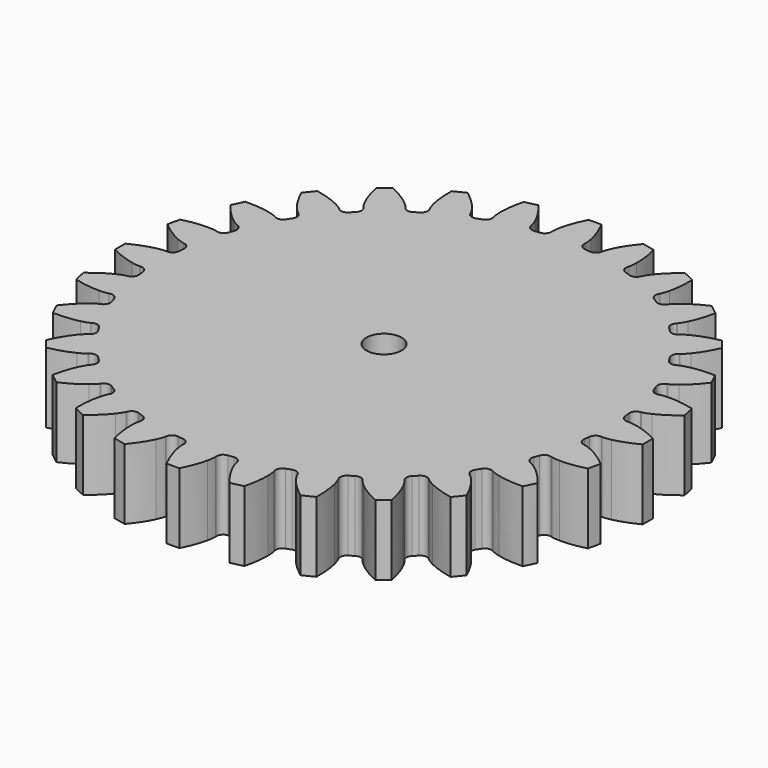
from build123d import *

# Parameters (mm, degrees)
PAD_DEPTH    = 10
SKETCH_R     = 2.5
POCKET_DEPTH = 10.001


with BuildPart() as part:
    # InvoluteGear → Pad (new body)
    with BuildSketch(Plane.XY):
        with BuildLine():
            Line((32.742289, -2.328757), (32.856946, -2.335013))
            add(Edge.make_bspline(
                [(32.856946, -2.335013), (32.990949, -2.337125), (33.394798, -2.328721), (34.06713, -2.188651)],
                knots=[0, 0, 0, 0, 1, 1, 1, 1], degree=3))
            add(Edge.make_bspline(
                [(34.06713, -2.188651), (34.873016, -2.018801), (36.038338, -1.661329), (37.491435, -0.912795)],
                knots=[0, 0, 0, 0, 1, 1, 1, 1], degree=3))
            ThreePointArc((37.491435, -0.912795), (37.501273, 0.000463), (37.488867, 0.91369))
            add(Edge.make_bspline(
                [(37.488867, 0.91369), (36.038338, 1.661329), (34.873016, 2.018801), (34.06713, 2.188651)],
                knots=[0, 0, 0, 0, 1, 1, 1, 1], degree=3))
            add(Edge.make_bspline(
                [(34.06713, 2.188651), (33.394798, 2.328721), (32.990949, 2.337125), (32.856946, 2.335013)],
                knots=[0, 0, 0, 0, 1, 1, 1, 1], degree=3))
            Line((32.856946, 2.335013), (32.742289, 2.328757))
            ThreePointArc((32.742289, 2.328757), (32.054621, 2.54414), (31.715956, 3.180209))
            ThreePointArc((31.715956, 3.180209), (31.674577, 3.568868), (31.628434, 3.95699))
            ThreePointArc((31.628434, 3.95699), (31.817069, 4.652471), (32.439569, 5.015475))
            Line((32.439569, 5.015475), (32.552743, 5.034889))
            add(Edge.make_bspline(
                [(32.552743, 5.034889), (32.683857, 5.062649), (33.07571, 5.160707), (33.700017, 5.446872)],
                knots=[0, 0, 0, 0, 1, 1, 1, 1], degree=3))
            add(Edge.make_bspline(
                [(33.700017, 5.446872), (34.447903, 5.791791), (35.504462, 6.399608), (36.754562, 7.45272)],
                knots=[0, 0, 0, 0, 1, 1, 1, 1], degree=3))
            ThreePointArc((36.754562, 7.45272), (36.560935, 8.34527), (36.345628, 9.23284))
            add(Edge.make_bspline(
                [(36.345628, 9.23284), (34.765101, 9.638961), (33.549452, 9.728162), (32.725976, 9.714427)],
                knots=[0, 0, 0, 0, 1, 1, 1, 1], degree=3))
            add(Edge.make_bspline(
                [(32.725976, 9.714427), (32.039332, 9.701377), (31.643738, 9.619705), (31.513565, 9.587827)],
                knots=[0, 0, 0, 0, 1, 1, 1, 1], degree=3))
            Line((31.513565, 9.587827), (31.403175, 9.556215))
            ThreePointArc((31.403175, 9.556215), (30.68482, 9.613177), (30.213108, 10.157939))
            ThreePointArc((30.213108, 10.157939), (30.086281, 10.527645), (29.95493, 10.895769))
            ThreePointArc((29.95493, 10.895769), (29.984077, 11.615788), (30.510193, 12.10821))
            Line((30.510193, 12.10821), (30.61621, 12.152321))
            add(Edge.make_bspline(
                [(30.61621, 12.152321), (30.737859, 12.20856), (31.098067, 12.391355), (31.643044, 12.809267)],
                knots=[0, 0, 0, 0, 1, 1, 1, 1], degree=3))
            add(Edge.make_bspline(
                [(31.643044, 12.809267), (32.295427, 13.311958), (33.190244, 14.139643), (34.174663, 15.444524)],
                knots=[0, 0, 0, 0, 1, 1, 1, 1], degree=3))
            ThreePointArc((34.174663, 15.444524), (33.787278, 16.27161), (33.379867, 17.089016))
            add(Edge.make_bspline(
                [(33.379867, 17.089016), (31.748597, 17.133255), (30.543577, 16.949712), (29.743804, 16.753081)],
                knots=[0, 0, 0, 0, 1, 1, 1, 1], degree=3))
            add(Edge.make_bspline(
                [(29.743804, 16.753081), (29.077279, 16.587565), (28.709778, 16.419913), (28.589961, 16.359868)],
                knots=[0, 0, 0, 0, 1, 1, 1, 1], degree=3))
            Line((28.589961, 16.359868), (28.489374, 16.304484))
            ThreePointArc((28.489374, 16.304484), (27.776355, 16.20017), (27.195248, 16.626307))
            ThreePointArc((27.195248, 16.626307), (26.989334, 16.958522), (26.779361, 17.288188))
            ThreePointArc((26.779361, 17.288188), (26.647557, 17.996641), (27.050909, 18.593788))
            Line((27.050909, 18.593788), (27.144452, 18.660384))
            add(Edge.make_bspline(
                [(27.144452, 18.660384), (27.250536, 18.742283), (27.561038, 19.000649), (27.999357, 19.529352)],
                knots=[0, 0, 0, 0, 1, 1, 1, 1], degree=3))
            add(Edge.make_bspline(
                [(27.999357, 19.529352), (28.523524, 20.164608), (29.211729, 21.170657), (29.881102, 22.661876)],
                knots=[0, 0, 0, 0, 1, 1, 1, 1], degree=3))
            ThreePointArc((29.881102, 22.661876), (29.319387, 23.382023), (28.7403, 24.088278))
            add(Edge.make_bspline(
                [(28.7403, 24.088278), (27.140085, 23.768415), (26.00612, 23.321332), (25.270153, 22.951665)],
                knots=[0, 0, 0, 0, 1, 1, 1, 1], degree=3))
            add(Edge.make_bspline(
                [(25.270153, 22.951665), (24.657171, 22.641983), (24.336189, 22.396758), (24.232738, 22.311557)],
                knots=[0, 0, 0, 0, 1, 1, 1, 1], degree=3))
            Line((24.232738, 22.311557), (24.146997, 22.235179))
            ThreePointArc((24.146997, 22.235179), (23.475067, 21.974818), (22.813705, 22.260963))
            ThreePointArc((22.813705, 22.260963), (22.539029, 22.539029), (22.260963, 22.813705))
            ThreePointArc((22.260963, 22.813705), (21.974818, 23.475067), (22.235179, 24.146997))
            Line((22.235179, 24.146997), (22.311557, 24.232738))
            add(Edge.make_bspline(
                [(22.311557, 24.232738), (22.396758, 24.336189), (22.641983, 24.657171), (22.951665, 25.270153)],
                knots=[0, 0, 0, 0, 1, 1, 1, 1], degree=3))
            add(Edge.make_bspline(
                [(22.951665, 25.270153), (23.321332, 26.00612), (23.768415, 27.140085), (24.089179, 28.742866)],
                knots=[0, 0, 0, 0, 1, 1, 1, 1], degree=3))
            ThreePointArc((24.089179, 28.742866), (23.381299, 29.319965), (22.659575, 29.879653))
            add(Edge.make_bspline(
                [(22.659575, 29.879653), (21.170657, 29.211729), (20.164608, 28.523524), (19.529352, 27.999357)],
                knots=[0, 0, 0, 0, 1, 1, 1, 1], degree=3))
            add(Edge.make_bspline(
                [(19.529352, 27.999357), (19.000649, 27.561038), (18.742283, 27.250536), (18.660384, 27.144452)],
                knots=[0, 0, 0, 0, 1, 1, 1, 1], degree=3))
            Line((18.660384, 27.144452), (18.593788, 27.050909))
            ThreePointArc((18.593788, 27.050909), (17.996641, 26.647557), (17.288188, 26.779361))
            ThreePointArc((17.288188, 26.779361), (16.958522, 26.989334), (16.626307, 27.195248))
            ThreePointArc((16.626307, 27.195248), (16.20017, 27.776355), (16.304484, 28.489374))
            Line((16.304484, 28.489374), (16.359868, 28.589961))
            add(Edge.make_bspline(
                [(16.359868, 28.589961), (16.419913, 28.709778), (16.587565, 29.077279), (16.753081, 29.743804)],
                knots=[0, 0, 0, 0, 1, 1, 1, 1], degree=3))
            add(Edge.make_bspline(
                [(16.753081, 29.743804), (16.949712, 30.543577), (17.133255, 31.748597), (17.089324, 33.382569)],
                knots=[0, 0, 0, 0, 1, 1, 1, 1], degree=3))
            ThreePointArc((17.089324, 33.382569), (16.270775, 33.78768), (15.442604, 34.172738))
            add(Edge.make_bspline(
                [(15.442604, 34.172738), (14.139643, 33.190244), (13.311958, 32.295427), (12.809267, 31.643044)],
                knots=[0, 0, 0, 0, 1, 1, 1, 1], degree=3))
            add(Edge.make_bspline(
                [(12.809267, 31.643044), (12.391355, 31.098067), (12.20856, 30.737859), (12.152321, 30.61621)],
                knots=[0, 0, 0, 0, 1, 1, 1, 1], degree=3))
            Line((12.152321, 30.61621), (12.10821, 30.510193))
            ThreePointArc((12.10821, 30.510193), (11.615788, 29.984077), (10.895769, 29.95493))
            ThreePointArc((10.895769, 29.95493), (10.527645, 30.086281), (10.157939, 30.213108))
            ThreePointArc((10.157939, 30.213108), (9.613177, 30.68482), (9.556215, 31.403175))
            Line((9.556215, 31.403175), (9.587827, 31.513565))
            add(Edge.make_bspline(
                [(9.587827, 31.513565), (9.619705, 31.643738), (9.701377, 32.039332), (9.714427, 32.725976)],
                knots=[0, 0, 0, 0, 1, 1, 1, 1], degree=3))
            add(Edge.make_bspline(
                [(9.714427, 32.725976), (9.728162, 33.549452), (9.638961, 34.765101), (9.232538, 36.348331)],
                knots=[0, 0, 0, 0, 1, 1, 1, 1], degree=3))
            ThreePointArc((9.232538, 36.348331), (8.344367, 36.561141), (7.451276, 36.752258))
            add(Edge.make_bspline(
                [(7.451276, 36.752258), (6.399608, 35.504462), (5.791791, 34.447903), (5.446872, 33.700017)],
                knots=[0, 0, 0, 0, 1, 1, 1, 1], degree=3))
            add(Edge.make_bspline(
                [(5.446872, 33.700017), (5.160707, 33.07571), (5.062649, 32.683857), (5.034889, 32.552743)],
                knots=[0, 0, 0, 0, 1, 1, 1, 1], degree=3))
            Line((5.034889, 32.552743), (5.015475, 32.439569))
            ThreePointArc((5.015475, 32.439569), (4.652471, 31.817069), (3.95699, 31.628434))
            ThreePointArc((3.95699, 31.628434), (3.568868, 31.674577), (3.180209, 31.715956))
            ThreePointArc((3.180209, 31.715956), (2.54414, 32.054621), (2.328757, 32.742289))
            Line((2.328757, 32.742289), (2.335013, 32.856946))
            add(Edge.make_bspline(
                [(2.335013, 32.856946), (2.337125, 32.990949), (2.328721, 33.394798), (2.188651, 34.06713)],
                knots=[0, 0, 0, 0, 1, 1, 1, 1], degree=3))
            add(Edge.make_bspline(
                [(2.188651, 34.06713), (2.018801, 34.873016), (1.661329, 36.038338), (0.912795, 37.491435)],
                knots=[0, 0, 0, 0, 1, 1, 1, 1], degree=3))
            ThreePointArc((0.912795, 37.491435), (-0.000463, 37.501273), (-0.91369, 37.488867))
            add(Edge.make_bspline(
                [(-0.91369, 37.488867), (-1.661329, 36.038338), (-2.018801, 34.873016), (-2.188651, 34.06713)],
                knots=[0, 0, 0, 0, 1, 1, 1, 1], degree=3))
            add(Edge.make_bspline(
                [(-2.188651, 34.06713), (-2.328721, 33.394798), (-2.337125, 32.990949), (-2.335013, 32.856946)],
                knots=[0, 0, 0, 0, 1, 1, 1, 1], degree=3))
            Line((-2.335013, 32.856946), (-2.328757, 32.742289))
            ThreePointArc((-2.328757, 32.742289), (-2.54414, 32.054621), (-3.180209, 31.715956))
            ThreePointArc((-3.180209, 31.715956), (-3.568868, 31.674577), (-3.95699, 31.628434))
            ThreePointArc((-3.95699, 31.628434), (-4.652471, 31.817069), (-5.015475, 32.439569))
            Line((-5.015475, 32.439569), (-5.034889, 32.552743))
            add(Edge.make_bspline(
                [(-5.034889, 32.552743), (-5.062649, 32.683857), (-5.160707, 33.07571), (-5.446872, 33.700017)],
                knots=[0, 0, 0, 0, 1, 1, 1, 1], degree=3))
            add(Edge.make_bspline(
                [(-5.446872, 33.700017), (-5.791791, 34.447903), (-6.399608, 35.504462), (-7.45272, 36.754562)],
                knots=[0, 0, 0, 0, 1, 1, 1, 1], degree=3))
            ThreePointArc((-7.45272, 36.754562), (-8.34527, 36.560935), (-9.23284, 36.345628))
            add(Edge.make_bspline(
                [(-9.23284, 36.345628), (-9.638961, 34.765101), (-9.728162, 33.549452), (-9.714427, 32.725976)],
                knots=[0, 0, 0, 0, 1, 1, 1, 1], degree=3))
            add(Edge.make_bspline(
                [(-9.714427, 32.725976), (-9.701377, 32.039332), (-9.619705, 31.643738), (-9.587827, 31.513565)],
                knots=[0, 0, 0, 0, 1, 1, 1, 1], degree=3))
            Line((-9.587827, 31.513565), (-9.556215, 31.403175))
            ThreePointArc((-9.556215, 31.403175), (-9.613177, 30.68482), (-10.157939, 30.213108))
            ThreePointArc((-10.157939, 30.213108), (-10.527645, 30.086281), (-10.895769, 29.95493))
            ThreePointArc((-10.895769, 29.95493), (-11.615788, 29.984077), (-12.10821, 30.510193))
            Line((-12.10821, 30.510193), (-12.152321, 30.61621))
            add(Edge.make_bspline(
                [(-12.152321, 30.61621), (-12.20856, 30.737859), (-12.391355, 31.098067), (-12.809267, 31.643044)],
                knots=[0, 0, 0, 0, 1, 1, 1, 1], degree=3))
            add(Edge.make_bspline(
                [(-12.809267, 31.643044), (-13.311958, 32.295427), (-14.139643, 33.190244), (-15.444524, 34.174663)],
                knots=[0, 0, 0, 0, 1, 1, 1, 1], degree=3))
            ThreePointArc((-15.444524, 34.174663), (-16.27161, 33.787278), (-17.089016, 33.379867))
            add(Edge.make_bspline(
                [(-17.089016, 33.379867), (-17.133255, 31.748597), (-16.949712, 30.543577), (-16.753081, 29.743804)],
                knots=[0, 0, 0, 0, 1, 1, 1, 1], degree=3))
            add(Edge.make_bspline(
                [(-16.753081, 29.743804), (-16.587565, 29.077279), (-16.419913, 28.709778), (-16.359868, 28.589961)],
                knots=[0, 0, 0, 0, 1, 1, 1, 1], degree=3))
            Line((-16.359868, 28.589961), (-16.304484, 28.489374))
            ThreePointArc((-16.304484, 28.489374), (-16.20017, 27.776355), (-16.626307, 27.195248))
            ThreePointArc((-16.626307, 27.195248), (-16.958522, 26.989334), (-17.288188, 26.779361))
            ThreePointArc((-17.288188, 26.779361), (-17.996641, 26.647557), (-18.593788, 27.050909))
            Line((-18.593788, 27.050909), (-18.660384, 27.144452))
            add(Edge.make_bspline(
                [(-18.660384, 27.144452), (-18.742283, 27.250536), (-19.000649, 27.561038), (-19.529352, 27.999357)],
                knots=[0, 0, 0, 0, 1, 1, 1, 1], degree=3))
            add(Edge.make_bspline(
                [(-19.529352, 27.999357), (-20.164608, 28.523524), (-21.170657, 29.211729), (-22.661876, 29.881102)],
                knots=[0, 0, 0, 0, 1, 1, 1, 1], degree=3))
            ThreePointArc((-22.661876, 29.881102), (-23.382023, 29.319387), (-24.088278, 28.7403))
            add(Edge.make_bspline(
                [(-24.088278, 28.7403), (-23.768415, 27.140085), (-23.321332, 26.00612), (-22.951665, 25.270153)],
                knots=[0, 0, 0, 0, 1, 1, 1, 1], degree=3))
            add(Edge.make_bspline(
                [(-22.951665, 25.270153), (-22.641983, 24.657171), (-22.396758, 24.336189), (-22.311557, 24.232738)],
                knots=[0, 0, 0, 0, 1, 1, 1, 1], degree=3))
            Line((-22.311557, 24.232738), (-22.235179, 24.146997))
            ThreePointArc((-22.235179, 24.146997), (-21.974818, 23.475067), (-22.260963, 22.813705))
            ThreePointArc((-22.260963, 22.813705), (-22.539029, 22.539029), (-22.813705, 22.260963))
            ThreePointArc((-22.813705, 22.260963), (-23.475067, 21.974818), (-24.146997, 22.235179))
            Line((-24.146997, 22.235179), (-24.232738, 22.311557))
            add(Edge.make_bspline(
                [(-24.232738, 22.311557), (-24.336189, 22.396758), (-24.657171, 22.641983), (-25.270153, 22.951665)],
                knots=[0, 0, 0, 0, 1, 1, 1, 1], degree=3))
            add(Edge.make_bspline(
                [(-25.270153, 22.951665), (-26.00612, 23.321332), (-27.140085, 23.768415), (-28.742866, 24.089179)],
                knots=[0, 0, 0, 0, 1, 1, 1, 1], degree=3))
            ThreePointArc((-28.742866, 24.089179), (-29.319965, 23.381299), (-29.879653, 22.659575))
            add(Edge.make_bspline(
                [(-29.879653, 22.659575), (-29.211729, 21.170657), (-28.523524, 20.164608), (-27.999357, 19.529352)],
                knots=[0, 0, 0, 0, 1, 1, 1, 1], degree=3))
            add(Edge.make_bspline(
                [(-27.999357, 19.529352), (-27.561038, 19.000649), (-27.250536, 18.742283), (-27.144452, 18.660384)],
                knots=[0, 0, 0, 0, 1, 1, 1, 1], degree=3))
            Line((-27.144452, 18.660384), (-27.050909, 18.593788))
            ThreePointArc((-27.050909, 18.593788), (-26.647557, 17.996641), (-26.779361, 17.288188))
            ThreePointArc((-26.779361, 17.288188), (-26.989334, 16.958522), (-27.195248, 16.626307))
            ThreePointArc((-27.195248, 16.626307), (-27.776355, 16.20017), (-28.489374, 16.304484))
            Line((-28.489374, 16.304484), (-28.589961, 16.359868))
            add(Edge.make_bspline(
                [(-28.589961, 16.359868), (-28.709778, 16.419913), (-29.077279, 16.587565), (-29.743804, 16.753081)],
                knots=[0, 0, 0, 0, 1, 1, 1, 1], degree=3))
            add(Edge.make_bspline(
                [(-29.743804, 16.753081), (-30.543577, 16.949712), (-31.748597, 17.133255), (-33.382569, 17.089324)],
                knots=[0, 0, 0, 0, 1, 1, 1, 1], degree=3))
            ThreePointArc((-33.382569, 17.089324), (-33.78768, 16.270775), (-34.172738, 15.442604))
            add(Edge.make_bspline(
                [(-34.172738, 15.442604), (-33.190244, 14.139643), (-32.295427, 13.311958), (-31.643044, 12.809267)],
                knots=[0, 0, 0, 0, 1, 1, 1, 1], degree=3))
            add(Edge.make_bspline(
                [(-31.643044, 12.809267), (-31.098067, 12.391355), (-30.737859, 12.20856), (-30.61621, 12.152321)],
                knots=[0, 0, 0, 0, 1, 1, 1, 1], degree=3))
            Line((-30.61621, 12.152321), (-30.510193, 12.10821))
            ThreePointArc((-30.510193, 12.10821), (-29.984077, 11.615788), (-29.95493, 10.895769))
            ThreePointArc((-29.95493, 10.895769), (-30.086281, 10.527645), (-30.213108, 10.157939))
            ThreePointArc((-30.213108, 10.157939), (-30.68482, 9.613177), (-31.403175, 9.556215))
            Line((-31.403175, 9.556215), (-31.513565, 9.587827))
            add(Edge.make_bspline(
                [(-31.513565, 9.587827), (-31.643738, 9.619705), (-32.039332, 9.701377), (-32.725976, 9.714427)],
                knots=[0, 0, 0, 0, 1, 1, 1, 1], degree=3))
            add(Edge.make_bspline(
                [(-32.725976, 9.714427), (-33.549452, 9.728162), (-34.765101, 9.638961), (-36.348331, 9.232538)],
                knots=[0, 0, 0, 0, 1, 1, 1, 1], degree=3))
            ThreePointArc((-36.348331, 9.232538), (-36.561141, 8.344367), (-36.752258, 7.451276))
            add(Edge.make_bspline(
                [(-36.752258, 7.451276), (-35.504462, 6.399608), (-34.447903, 5.791791), (-33.700017, 5.446872)],
                knots=[0, 0, 0, 0, 1, 1, 1, 1], degree=3))
            add(Edge.make_bspline(
                [(-33.700017, 5.446872), (-33.07571, 5.160707), (-32.683857, 5.062649), (-32.552743, 5.034889)],
                knots=[0, 0, 0, 0, 1, 1, 1, 1], degree=3))
            Line((-32.552743, 5.034889), (-32.439569, 5.015475))
            ThreePointArc((-32.439569, 5.015475), (-31.817069, 4.652471), (-31.628434, 3.95699))
            ThreePointArc((-31.628434, 3.95699), (-31.674577, 3.568868), (-31.715956, 3.180209))
            ThreePointArc((-31.715956, 3.180209), (-32.054621, 2.54414), (-32.742289, 2.328757))
            Line((-32.742289, 2.328757), (-32.856946, 2.335013))
            add(Edge.make_bspline(
                [(-32.856946, 2.335013), (-32.990949, 2.337125), (-33.394798, 2.328721), (-34.06713, 2.188651)],
                knots=[0, 0, 0, 0, 1, 1, 1, 1], degree=3))
            add(Edge.make_bspline(
                [(-34.06713, 2.188651), (-34.873016, 2.018801), (-36.038338, 1.661329), (-37.491435, 0.912795)],
                knots=[0, 0, 0, 0, 1, 1, 1, 1], degree=3))
            ThreePointArc((-37.491435, 0.912795), (-37.501273, -0.000463), (-37.488867, -0.91369))
            add(Edge.make_bspline(
                [(-37.488867, -0.91369), (-36.038338, -1.661329), (-34.873016, -2.018801), (-34.06713, -2.188651)],
                knots=[0, 0, 0, 0, 1, 1, 1, 1], degree=3))
            add(Edge.make_bspline(
                [(-34.06713, -2.188651), (-33.394798, -2.328721), (-32.990949, -2.337125), (-32.856946, -2.335013)],
                knots=[0, 0, 0, 0, 1, 1, 1, 1], degree=3))
            Line((-32.856946, -2.335013), (-32.742289, -2.328757))
            ThreePointArc((-32.742289, -2.328757), (-32.054621, -2.54414), (-31.715956, -3.180209))
            ThreePointArc((-31.715956, -3.180209), (-31.674577, -3.568868), (-31.628434, -3.95699))
            ThreePointArc((-31.628434, -3.95699), (-31.817069, -4.652471), (-32.439569, -5.015475))
            Line((-32.439569, -5.015475), (-32.552743, -5.034889))
            add(Edge.make_bspline(
                [(-32.552743, -5.034889), (-32.683857, -5.062649), (-33.07571, -5.160707), (-33.700017, -5.446872)],
                knots=[0, 0, 0, 0, 1, 1, 1, 1], degree=3))
            add(Edge.make_bspline(
                [(-33.700017, -5.446872), (-34.447903, -5.791791), (-35.504462, -6.399608), (-36.754562, -7.45272)],
                knots=[0, 0, 0, 0, 1, 1, 1, 1], degree=3))
            ThreePointArc((-36.754562, -7.45272), (-36.560935, -8.34527), (-36.345628, -9.23284))
            add(Edge.make_bspline(
                [(-36.345628, -9.23284), (-34.765101, -9.638961), (-33.549452, -9.728162), (-32.725976, -9.714427)],
                knots=[0, 0, 0, 0, 1, 1, 1, 1], degree=3))
            add(Edge.make_bspline(
                [(-32.725976, -9.714427), (-32.039332, -9.701377), (-31.643738, -9.619705), (-31.513565, -9.587827)],
                knots=[0, 0, 0, 0, 1, 1, 1, 1], degree=3))
            Line((-31.513565, -9.587827), (-31.403175, -9.556215))
            ThreePointArc((-31.403175, -9.556215), (-30.68482, -9.613177), (-30.213108, -10.157939))
            ThreePointArc((-30.213108, -10.157939), (-30.086281, -10.527645), (-29.95493, -10.895769))
            ThreePointArc((-29.95493, -10.895769), (-29.984077, -11.615788), (-30.510193, -12.10821))
            Line((-30.510193, -12.10821), (-30.61621, -12.152321))
            add(Edge.make_bspline(
                [(-30.61621, -12.152321), (-30.737859, -12.20856), (-31.098067, -12.391355), (-31.643044, -12.809267)],
                knots=[0, 0, 0, 0, 1, 1, 1, 1], degree=3))
            add(Edge.make_bspline(
                [(-31.643044, -12.809267), (-32.295427, -13.311958), (-33.190244, -14.139643), (-34.174663, -15.444524)],
                knots=[0, 0, 0, 0, 1, 1, 1, 1], degree=3))
            ThreePointArc((-34.174663, -15.444524), (-33.787278, -16.27161), (-33.379867, -17.089016))
            add(Edge.make_bspline(
                [(-33.379867, -17.089016), (-31.748597, -17.133255), (-30.543577, -16.949712), (-29.743804, -16.753081)],
                knots=[0, 0, 0, 0, 1, 1, 1, 1], degree=3))
            add(Edge.make_bspline(
                [(-29.743804, -16.753081), (-29.077279, -16.587565), (-28.709778, -16.419913), (-28.589961, -16.359868)],
                knots=[0, 0, 0, 0, 1, 1, 1, 1], degree=3))
            Line((-28.589961, -16.359868), (-28.489374, -16.304484))
            ThreePointArc((-28.489374, -16.304484), (-27.776355, -16.20017), (-27.195248, -16.626307))
            ThreePointArc((-27.195248, -16.626307), (-26.989334, -16.958522), (-26.779361, -17.288188))
            ThreePointArc((-26.779361, -17.288188), (-26.647557, -17.996641), (-27.050909, -18.593788))
            Line((-27.050909, -18.593788), (-27.144452, -18.660384))
            add(Edge.make_bspline(
                [(-27.144452, -18.660384), (-27.250536, -18.742283), (-27.561038, -19.000649), (-27.999357, -19.529352)],
                knots=[0, 0, 0, 0, 1, 1, 1, 1], degree=3))
            add(Edge.make_bspline(
                [(-27.999357, -19.529352), (-28.523524, -20.164608), (-29.211729, -21.170657), (-29.881102, -22.661876)],
                knots=[0, 0, 0, 0, 1, 1, 1, 1], degree=3))
            ThreePointArc((-29.881102, -22.661876), (-29.319387, -23.382023), (-28.7403, -24.088278))
            add(Edge.make_bspline(
                [(-28.7403, -24.088278), (-27.140085, -23.768415), (-26.00612, -23.321332), (-25.270153, -22.951665)],
                knots=[0, 0, 0, 0, 1, 1, 1, 1], degree=3))
            add(Edge.make_bspline(
                [(-25.270153, -22.951665), (-24.657171, -22.641983), (-24.336189, -22.396758), (-24.232738, -22.311557)],
                knots=[0, 0, 0, 0, 1, 1, 1, 1], degree=3))
            Line((-24.232738, -22.311557), (-24.146997, -22.235179))
            ThreePointArc((-24.146997, -22.235179), (-23.475067, -21.974818), (-22.813705, -22.260963))
            ThreePointArc((-22.813705, -22.260963), (-22.539029, -22.539029), (-22.260963, -22.813705))
            ThreePointArc((-22.260963, -22.813705), (-21.974818, -23.475067), (-22.235179, -24.146997))
            Line((-22.235179, -24.146997), (-22.311557, -24.232738))
            add(Edge.make_bspline(
                [(-22.311557, -24.232738), (-22.396758, -24.336189), (-22.641983, -24.657171), (-22.951665, -25.270153)],
                knots=[0, 0, 0, 0, 1, 1, 1, 1], degree=3))
            add(Edge.make_bspline(
                [(-22.951665, -25.270153), (-23.321332, -26.00612), (-23.768415, -27.140085), (-24.089179, -28.742866)],
                knots=[0, 0, 0, 0, 1, 1, 1, 1], degree=3))
            ThreePointArc((-24.089179, -28.742866), (-23.381299, -29.319965), (-22.659575, -29.879653))
            add(Edge.make_bspline(
                [(-22.659575, -29.879653), (-21.170657, -29.211729), (-20.164608, -28.523524), (-19.529352, -27.999357)],
                knots=[0, 0, 0, 0, 1, 1, 1, 1], degree=3))
            add(Edge.make_bspline(
                [(-19.529352, -27.999357), (-19.000649, -27.561038), (-18.742283, -27.250536), (-18.660384, -27.144452)],
                knots=[0, 0, 0, 0, 1, 1, 1, 1], degree=3))
            Line((-18.660384, -27.144452), (-18.593788, -27.050909))
            ThreePointArc((-18.593788, -27.050909), (-17.996641, -26.647557), (-17.288188, -26.779361))
            ThreePointArc((-17.288188, -26.779361), (-16.958522, -26.989334), (-16.626307, -27.195248))
            ThreePointArc((-16.626307, -27.195248), (-16.20017, -27.776355), (-16.304484, -28.489374))
            Line((-16.304484, -28.489374), (-16.359868, -28.589961))
            add(Edge.make_bspline(
                [(-16.359868, -28.589961), (-16.419913, -28.709778), (-16.587565, -29.077279), (-16.753081, -29.743804)],
                knots=[0, 0, 0, 0, 1, 1, 1, 1], degree=3))
            add(Edge.make_bspline(
                [(-16.753081, -29.743804), (-16.949712, -30.543577), (-17.133255, -31.748597), (-17.089324, -33.382569)],
                knots=[0, 0, 0, 0, 1, 1, 1, 1], degree=3))
            ThreePointArc((-17.089324, -33.382569), (-16.270775, -33.78768), (-15.442604, -34.172738))
            add(Edge.make_bspline(
                [(-15.442604, -34.172738), (-14.139643, -33.190244), (-13.311958, -32.295427), (-12.809267, -31.643044)],
                knots=[0, 0, 0, 0, 1, 1, 1, 1], degree=3))
            add(Edge.make_bspline(
                [(-12.809267, -31.643044), (-12.391355, -31.098067), (-12.20856, -30.737859), (-12.152321, -30.61621)],
                knots=[0, 0, 0, 0, 1, 1, 1, 1], degree=3))
            Line((-12.152321, -30.61621), (-12.10821, -30.510193))
            ThreePointArc((-12.10821, -30.510193), (-11.615788, -29.984077), (-10.895769, -29.95493))
            ThreePointArc((-10.895769, -29.95493), (-10.527645, -30.086281), (-10.157939, -30.213108))
            ThreePointArc((-10.157939, -30.213108), (-9.613177, -30.68482), (-9.556215, -31.403175))
            Line((-9.556215, -31.403175), (-9.587827, -31.513565))
            add(Edge.make_bspline(
                [(-9.587827, -31.513565), (-9.619705, -31.643738), (-9.701377, -32.039332), (-9.714427, -32.725976)],
                knots=[0, 0, 0, 0, 1, 1, 1, 1], degree=3))
            add(Edge.make_bspline(
                [(-9.714427, -32.725976), (-9.728162, -33.549452), (-9.638961, -34.765101), (-9.232538, -36.348331)],
                knots=[0, 0, 0, 0, 1, 1, 1, 1], degree=3))
            ThreePointArc((-9.232538, -36.348331), (-8.344367, -36.561141), (-7.451276, -36.752258))
            add(Edge.make_bspline(
                [(-7.451276, -36.752258), (-6.399608, -35.504462), (-5.791791, -34.447903), (-5.446872, -33.700017)],
                knots=[0, 0, 0, 0, 1, 1, 1, 1], degree=3))
            add(Edge.make_bspline(
                [(-5.446872, -33.700017), (-5.160707, -33.07571), (-5.062649, -32.683857), (-5.034889, -32.552743)],
                knots=[0, 0, 0, 0, 1, 1, 1, 1], degree=3))
            Line((-5.034889, -32.552743), (-5.015475, -32.439569))
            ThreePointArc((-5.015475, -32.439569), (-4.652471, -31.817069), (-3.95699, -31.628434))
            ThreePointArc((-3.95699, -31.628434), (-3.568868, -31.674577), (-3.180209, -31.715956))
            ThreePointArc((-3.180209, -31.715956), (-2.54414, -32.054621), (-2.328757, -32.742289))
            Line((-2.328757, -32.742289), (-2.335013, -32.856946))
            add(Edge.make_bspline(
                [(-2.335013, -32.856946), (-2.337125, -32.990949), (-2.328721, -33.394798), (-2.188651, -34.06713)],
                knots=[0, 0, 0, 0, 1, 1, 1, 1], degree=3))
            add(Edge.make_bspline(
                [(-2.188651, -34.06713), (-2.018801, -34.873016), (-1.661329, -36.038338), (-0.912795, -37.491435)],
                knots=[0, 0, 0, 0, 1, 1, 1, 1], degree=3))
            ThreePointArc((-0.912795, -37.491435), (0.000463, -37.501273), (0.91369, -37.488867))
            add(Edge.make_bspline(
                [(0.91369, -37.488867), (1.661329, -36.038338), (2.018801, -34.873016), (2.188651, -34.06713)],
                knots=[0, 0, 0, 0, 1, 1, 1, 1], degree=3))
            add(Edge.make_bspline(
                [(2.188651, -34.06713), (2.328721, -33.394798), (2.337125, -32.990949), (2.335013, -32.856946)],
                knots=[0, 0, 0, 0, 1, 1, 1, 1], degree=3))
            Line((2.335013, -32.856946), (2.328757, -32.742289))
            ThreePointArc((2.328757, -32.742289), (2.54414, -32.054621), (3.180209, -31.715956))
            ThreePointArc((3.180209, -31.715956), (3.568868, -31.674577), (3.95699, -31.628434))
            ThreePointArc((3.95699, -31.628434), (4.652471, -31.817069), (5.015475, -32.439569))
            Line((5.015475, -32.439569), (5.034889, -32.552743))
            add(Edge.make_bspline(
                [(5.034889, -32.552743), (5.062649, -32.683857), (5.160707, -33.07571), (5.446872, -33.700017)],
                knots=[0, 0, 0, 0, 1, 1, 1, 1], degree=3))
            add(Edge.make_bspline(
                [(5.446872, -33.700017), (5.791791, -34.447903), (6.399608, -35.504462), (7.45272, -36.754562)],
                knots=[0, 0, 0, 0, 1, 1, 1, 1], degree=3))
            ThreePointArc((7.45272, -36.754562), (8.34527, -36.560935), (9.23284, -36.345628))
            add(Edge.make_bspline(
                [(9.23284, -36.345628), (9.638961, -34.765101), (9.728162, -33.549452), (9.714427, -32.725976)],
                knots=[0, 0, 0, 0, 1, 1, 1, 1], degree=3))
            add(Edge.make_bspline(
                [(9.714427, -32.725976), (9.701377, -32.039332), (9.619705, -31.643738), (9.587827, -31.513565)],
                knots=[0, 0, 0, 0, 1, 1, 1, 1], degree=3))
            Line((9.587827, -31.513565), (9.556215, -31.403175))
            ThreePointArc((9.556215, -31.403175), (9.613177, -30.68482), (10.157939, -30.213108))
            ThreePointArc((10.157939, -30.213108), (10.527645, -30.086281), (10.895769, -29.95493))
            ThreePointArc((10.895769, -29.95493), (11.615788, -29.984077), (12.10821, -30.510193))
            Line((12.10821, -30.510193), (12.152321, -30.61621))
            add(Edge.make_bspline(
                [(12.152321, -30.61621), (12.20856, -30.737859), (12.391355, -31.098067), (12.809267, -31.643044)],
                knots=[0, 0, 0, 0, 1, 1, 1, 1], degree=3))
            add(Edge.make_bspline(
                [(12.809267, -31.643044), (13.311958, -32.295427), (14.139643, -33.190244), (15.444524, -34.174663)],
                knots=[0, 0, 0, 0, 1, 1, 1, 1], degree=3))
            ThreePointArc((15.444524, -34.174663), (16.27161, -33.787278), (17.089016, -33.379867))
            add(Edge.make_bspline(
                [(17.089016, -33.379867), (17.133255, -31.748597), (16.949712, -30.543577), (16.753081, -29.743804)],
                knots=[0, 0, 0, 0, 1, 1, 1, 1], degree=3))
            add(Edge.make_bspline(
                [(16.753081, -29.743804), (16.587565, -29.077279), (16.419913, -28.709778), (16.359868, -28.589961)],
                knots=[0, 0, 0, 0, 1, 1, 1, 1], degree=3))
            Line((16.359868, -28.589961), (16.304484, -28.489374))
            ThreePointArc((16.304484, -28.489374), (16.20017, -27.776355), (16.626307, -27.195248))
            ThreePointArc((16.626307, -27.195248), (16.958522, -26.989334), (17.288188, -26.779361))
            ThreePointArc((17.288188, -26.779361), (17.996641, -26.647557), (18.593788, -27.050909))
            Line((18.593788, -27.050909), (18.660384, -27.144452))
            add(Edge.make_bspline(
                [(18.660384, -27.144452), (18.742283, -27.250536), (19.000649, -27.561038), (19.529352, -27.999357)],
                knots=[0, 0, 0, 0, 1, 1, 1, 1], degree=3))
            add(Edge.make_bspline(
                [(19.529352, -27.999357), (20.164608, -28.523524), (21.170657, -29.211729), (22.661876, -29.881102)],
                knots=[0, 0, 0, 0, 1, 1, 1, 1], degree=3))
            ThreePointArc((22.661876, -29.881102), (23.382023, -29.319387), (24.088278, -28.7403))
            add(Edge.make_bspline(
                [(24.088278, -28.7403), (23.768415, -27.140085), (23.321332, -26.00612), (22.951665, -25.270153)],
                knots=[0, 0, 0, 0, 1, 1, 1, 1], degree=3))
            add(Edge.make_bspline(
                [(22.951665, -25.270153), (22.641983, -24.657171), (22.396758, -24.336189), (22.311557, -24.232738)],
                knots=[0, 0, 0, 0, 1, 1, 1, 1], degree=3))
            Line((22.311557, -24.232738), (22.235179, -24.146997))
            ThreePointArc((22.235179, -24.146997), (21.974818, -23.475067), (22.260963, -22.813705))
            ThreePointArc((22.260963, -22.813705), (22.539029, -22.539029), (22.813705, -22.260963))
            ThreePointArc((22.813705, -22.260963), (23.475067, -21.974818), (24.146997, -22.235179))
            Line((24.146997, -22.235179), (24.232738, -22.311557))
            add(Edge.make_bspline(
                [(24.232738, -22.311557), (24.336189, -22.396758), (24.657171, -22.641983), (25.270153, -22.951665)],
                knots=[0, 0, 0, 0, 1, 1, 1, 1], degree=3))
            add(Edge.make_bspline(
                [(25.270153, -22.951665), (26.00612, -23.321332), (27.140085, -23.768415), (28.742866, -24.089179)],
                knots=[0, 0, 0, 0, 1, 1, 1, 1], degree=3))
            ThreePointArc((28.742866, -24.089179), (29.319965, -23.381299), (29.879653, -22.659575))
            add(Edge.make_bspline(
                [(29.879653, -22.659575), (29.211729, -21.170657), (28.523524, -20.164608), (27.999357, -19.529352)],
                knots=[0, 0, 0, 0, 1, 1, 1, 1], degree=3))
            add(Edge.make_bspline(
                [(27.999357, -19.529352), (27.561038, -19.000649), (27.250536, -18.742283), (27.144452, -18.660384)],
                knots=[0, 0, 0, 0, 1, 1, 1, 1], degree=3))
            Line((27.144452, -18.660384), (27.050909, -18.593788))
            ThreePointArc((27.050909, -18.593788), (26.647557, -17.996641), (26.779361, -17.288188))
            ThreePointArc((26.779361, -17.288188), (26.989334, -16.958522), (27.195248, -16.626307))
            ThreePointArc((27.195248, -16.626307), (27.776355, -16.20017), (28.489374, -16.304484))
            Line((28.489374, -16.304484), (28.589961, -16.359868))
            add(Edge.make_bspline(
                [(28.589961, -16.359868), (28.709778, -16.419913), (29.077279, -16.587565), (29.743804, -16.753081)],
                knots=[0, 0, 0, 0, 1, 1, 1, 1], degree=3))
            add(Edge.make_bspline(
                [(29.743804, -16.753081), (30.543577, -16.949712), (31.748597, -17.133255), (33.382569, -17.089324)],
                knots=[0, 0, 0, 0, 1, 1, 1, 1], degree=3))
            ThreePointArc((33.382569, -17.089324), (33.78768, -16.270775), (34.172738, -15.442604))
            add(Edge.make_bspline(
                [(34.172738, -15.442604), (33.190244, -14.139643), (32.295427, -13.311958), (31.643044, -12.809267)],
                knots=[0, 0, 0, 0, 1, 1, 1, 1], degree=3))
            add(Edge.make_bspline(
                [(31.643044, -12.809267), (31.098067, -12.391355), (30.737859, -12.20856), (30.61621, -12.152321)],
                knots=[0, 0, 0, 0, 1, 1, 1, 1], degree=3))
            Line((30.61621, -12.152321), (30.510193, -12.10821))
            ThreePointArc((30.510193, -12.10821), (29.984077, -11.615788), (29.95493, -10.895769))
            ThreePointArc((29.95493, -10.895769), (30.086281, -10.527645), (30.213108, -10.157939))
            ThreePointArc((30.213108, -10.157939), (30.68482, -9.613177), (31.403175, -9.556215))
            Line((31.403175, -9.556215), (31.513565, -9.587827))
            add(Edge.make_bspline(
                [(31.513565, -9.587827), (31.643738, -9.619705), (32.039332, -9.701377), (32.725976, -9.714427)],
                knots=[0, 0, 0, 0, 1, 1, 1, 1], degree=3))
            add(Edge.make_bspline(
                [(32.725976, -9.714427), (33.549452, -9.728162), (34.765101, -9.638961), (36.348331, -9.232538)],
                knots=[0, 0, 0, 0, 1, 1, 1, 1], degree=3))
            ThreePointArc((36.348331, -9.232538), (36.561141, -8.344367), (36.752258, -7.451276))
            add(Edge.make_bspline(
                [(36.752258, -7.451276), (35.504462, -6.399608), (34.447903, -5.791791), (33.700017, -5.446872)],
                knots=[0, 0, 0, 0, 1, 1, 1, 1], degree=3))
            add(Edge.make_bspline(
                [(33.700017, -5.446872), (33.07571, -5.160707), (32.683857, -5.062649), (32.552743, -5.034889)],
                knots=[0, 0, 0, 0, 1, 1, 1, 1], degree=3))
            Line((32.552743, -5.034889), (32.439569, -5.015475))
            ThreePointArc((32.439569, -5.015475), (31.817069, -4.652471), (31.628434, -3.95699))
            ThreePointArc((31.628434, -3.95699), (31.674577, -3.568868), (31.715956, -3.180209))
            ThreePointArc((31.715956, -3.180209), (32.054621, -2.54414), (32.742289, -2.328757))
        make_face()
    extrude(amount=PAD_DEPTH)

    # Sketch (on Face282 of Pad) → Pocket (cut, through all)
    with BuildSketch(Plane.XY.offset(10)):
        Circle(SKETCH_R)
    extrude(amount=-POCKET_DEPTH, mode=Mode.SUBTRACT)


solid = part.part
